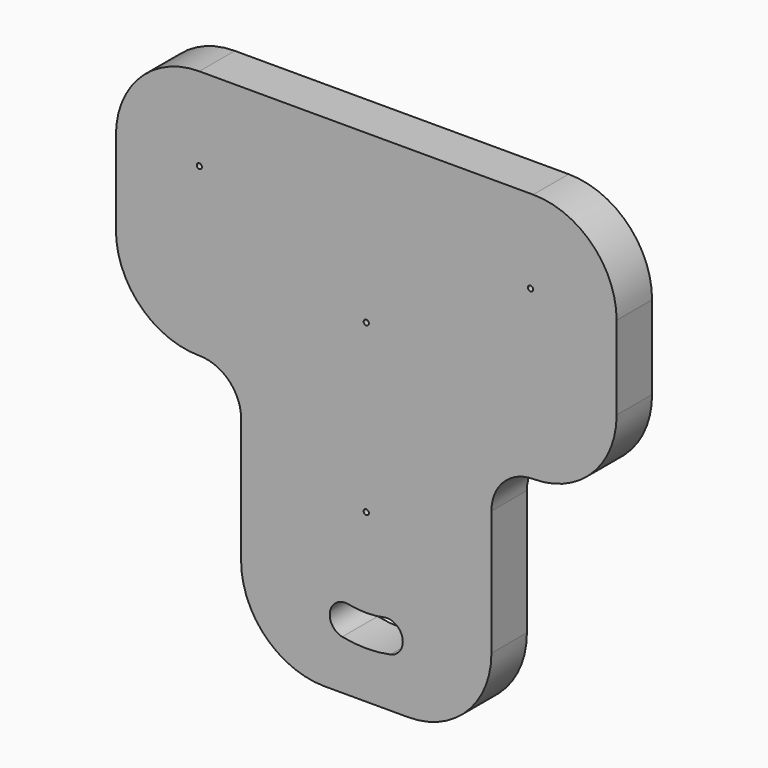
from build123d import *

# Parameters (mm, degrees)
F0_R     = 0.79375
F1_DEPTH = 13.49375


with BuildPart() as f1:
    # F0 (on Front) → F1 (new body)
    with BuildSketch(Plane.XZ):
        with BuildLine():
            Line((50.8, 0), (-50.8, 0))
            ThreePointArc((-50.8, 0), (-68.760512, -7.439488), (-76.2, -25.4))
            Line((-76.2, -25.4), (-76.2, -50.8))
            ThreePointArc((-76.2, -50.8), (-68.760512, -68.760512), (-50.8, -76.2))
            ThreePointArc((-50.8, -76.2), (-41.819744, -79.919744), (-38.1, -88.9))
            Line((-38.1, -88.9), (-38.1, -127))
            ThreePointArc((-38.1, -127), (-30.660512, -144.960512), (-12.7, -152.4))
            Line((-12.7, -152.4), (12.7, -152.4))
            ThreePointArc((12.7, -152.4), (30.660512, -144.960512), (38.1, -127))
            Line((38.1, -127), (38.1, -88.9))
            ThreePointArc((38.1, -88.9), (41.819744, -79.919744), (50.8, -76.2))
            ThreePointArc((50.8, -76.2), (68.760512, -68.760512), (76.2, -50.8))
            Line((76.2, -50.8), (76.2, -25.4))
            ThreePointArc((76.2, -25.4), (68.760512, -7.439488), (50.8, 0))
        make_face()
        with BuildLine():
            ThreePointArc((-7.3025, -137.374798), (-11.016278, -131.75602), (-5.3975, -128.042242))
            ThreePointArc((-5.3975, -128.042242), (0, -128.5875), (5.3975, -128.042242))
            ThreePointArc((5.3975, -128.042242), (11.016278, -131.75602), (7.3025, -137.374798))
            ThreePointArc((7.3025, -137.374798), (0, -138.1125), (-7.3025, -137.374798))
        make_face(mode=Mode.SUBTRACT)
        with Locations((0, -101.6)):
            Circle(F0_R, mode=Mode.SUBTRACT)
        with Locations((-50.8, -25.4)):
            Circle(F0_R, mode=Mode.SUBTRACT)
        with Locations((0, -50.8)):
            Circle(F0_R, mode=Mode.SUBTRACT)
        with Locations((50.00625, -25.4)):
            Circle(F0_R, mode=Mode.SUBTRACT)
    extrude(amount=F1_DEPTH)


solid = f1.part
